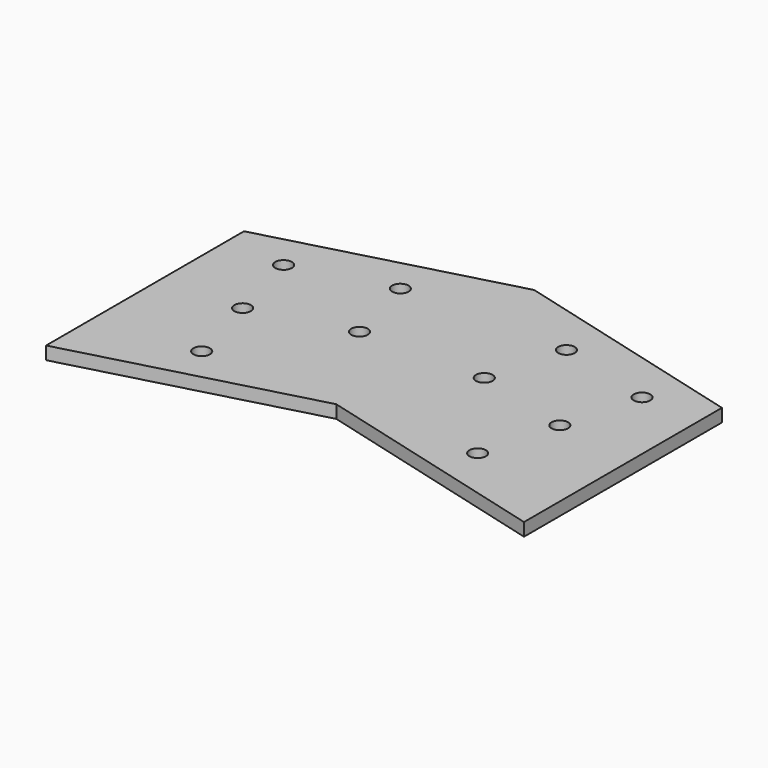
from build123d import *

# Parameters (mm, degrees)
F1_DEPTH = 6.5
F3_D     = 8.3


with BuildPart() as f1:
    # F0 (on Top) → F1 (new body)
    with BuildSketch(Plane.XY):
        Polygon((120, -32.1539030917), (0, 0), (-120, -32.1539030917), (-120, -156.3870447409), (0, -124.2331416492), (120, -156.3870447409), align=None)
    extrude(amount=F1_DEPTH)

    # F3 (through all)
    with Locations(Plane.XY.offset(6.5)):
        with Locations((-90, -44.820950927), (-41.7037086855, -31.8799986719), (-79.6472381959, -83.4579839786), (-31.3509468814, -70.5170317234), (-69.2944763918, -122.0950170301), (41.7037086855, -31.8799986719), (90, -44.820950927), (79.6472381959, -83.4579839786), (69.2944763918, -122.0950170301), (31.3509468814, -70.5170317234)):
            Hole(F3_D / 2)


solid = f1.part
